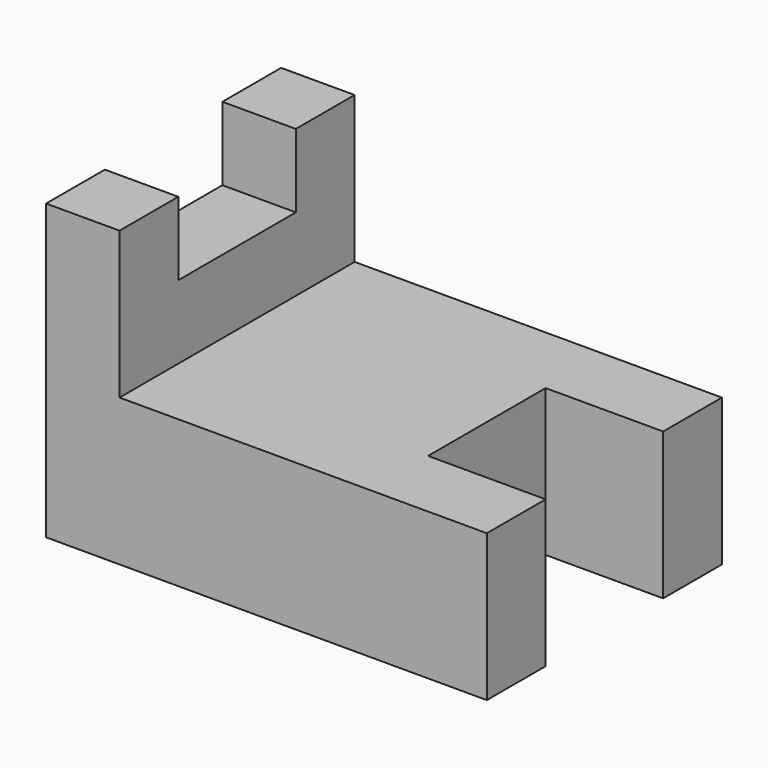
from build123d import *

# Parameters (mm, degrees)
F1_DEPTH = 12.7
F3_START = -6.35
F2_W     = 10.1600005239
F2_H     = 12.7
F3_DEPTH = 12.7
F5_START = -6.35
F4_W     = 6.35
F4_H     = 6.35
F5_DEPTH = 12.7


with BuildPart() as f1:
    # F0 (on Front) → F1 (new body, symmetric)
    with BuildSketch(Plane.XZ):
        Polygon((0, 25.4), (0, 0), (38.1, 0), (38.1, 12.7), (6.35, 12.7), (6.35, 25.4), align=None)
    extrude(amount=F1_DEPTH, both=True)

    # F2 (on face) → F3 (cut)
    with BuildSketch(Plane.XZ.offset(12.7).offset(F3_START)):
        with Locations((33.019999738, 6.35)):
            Rectangle(F2_W, F2_H)
    extrude(amount=-F3_DEPTH, mode=Mode.SUBTRACT)

    # F4 (on face) → F5 (cut)
    with BuildSketch(Plane.XZ.offset(12.7).offset(F5_START)):
        with Locations((3.175, 22.225)):
            Rectangle(F4_W, F4_H)
    extrude(amount=-F5_DEPTH, mode=Mode.SUBTRACT)


solid = f1.part
